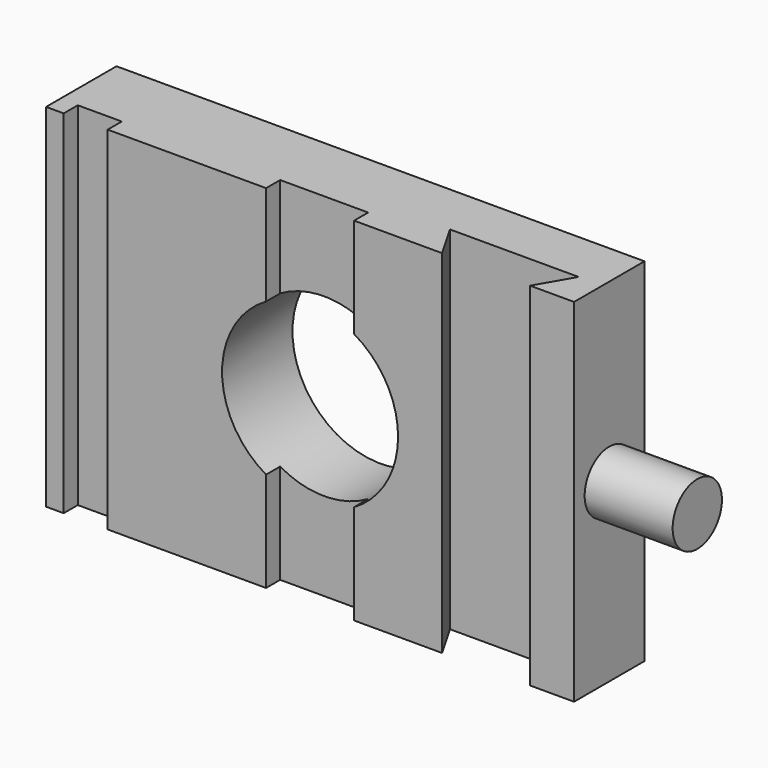
from build123d import *

# Parameters (mm, degrees)
F0_W     = 76.2
F0_H     = 50.8
F0_R     = 12.7
F1_DEPTH = 12.7
F2_W     = 6.35
F2_H     = 50.8
F3_DEPTH = 2.54
F5_DEPTH = 50.801
F6_R     = 4.445
F7_DEPTH = 12.7


with BuildPart() as f1:
    # F0 (on Front) → F1 (new body)
    with BuildSketch(Plane.XZ):
        Rectangle(F0_W, F0_H)
        Circle(F0_R, mode=Mode.SUBTRACT)
    extrude(amount=F1_DEPTH)

    # F2 (on face) → F3 (cut)
    with BuildSketch(Plane.XZ.offset(12.7)):
        with Locations((-32.385, 0)):
            Rectangle(F2_W, F2_H)
        with BuildLine():
            Line((6.35, 25.4), (-6.35, 25.4))
            Line((-6.35, 25.4), (-6.35, 10.9985226281))
            ThreePointArc((-6.35, 10.9985226281), (0, 12.7), (6.35, 10.9985226281))
            Line((6.35, 10.9985226281), (6.35, 25.4))
        make_face()
        with BuildLine():
            Line((-6.35, -10.9985226281), (-6.35, -25.4))
            Line((-6.35, -25.4), (6.35, -25.4))
            Line((6.35, -25.4), (6.35, -10.9985226281))
            ThreePointArc((6.35, -10.9985226281), (0, -12.7), (-6.35, -10.9985226281))
        make_face()
    extrude(amount=-F3_DEPTH, mode=Mode.SUBTRACT)

    # F4 (on face) → F5 (cut, through all)
    with BuildSketch(Plane(origin=(0, 0, -25.4), x_dir=(1, 0, 0), z_dir=(0, 0, -1))):
        Polygon((31.75, 12.7), (19.05, 12.7), (16.1170606325, 7.62), (34.6829393675, 7.62), align=None)
    extrude(amount=-F5_DEPTH, mode=Mode.SUBTRACT)

    # F6 (on face) → F7 (join)
    with BuildSketch(Plane.YZ.offset(38.1)):
        with Locations((-6.35, 0)):
            Circle(F6_R)
    extrude(amount=F7_DEPTH)


solid = f1.part
